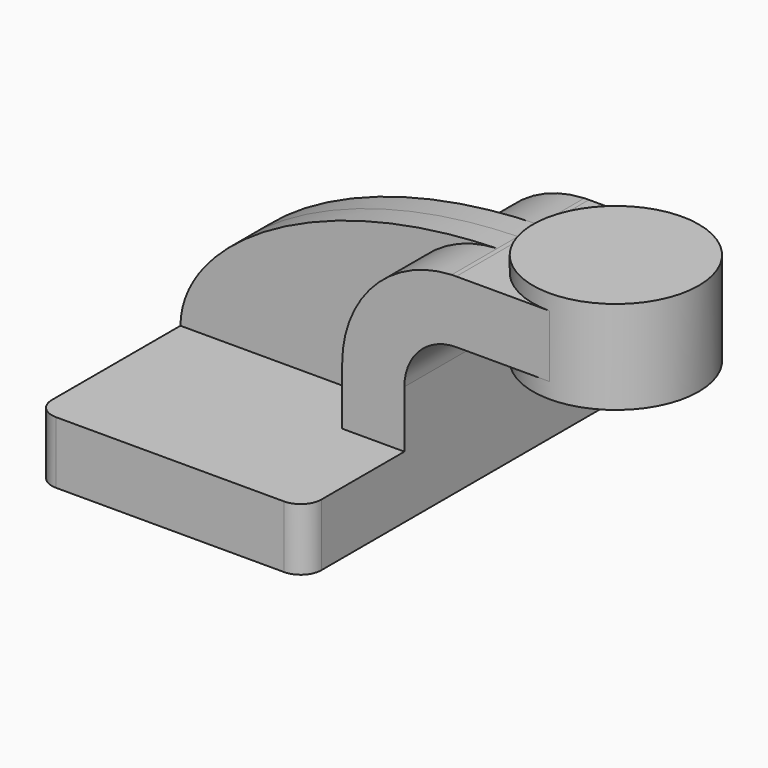
from build123d import *

# Parameters (mm, degrees)
F1_DEPTH = 63.5
F2_DEPTH = 25.4
F3_DEPTH = 7.9375
F5_R     = 6.35


with BuildPart() as f1:
    # F0 (on Front) → F1 (new body, symmetric)
    with BuildSketch(Plane.XZ):
        Polygon((-41.275, 9.525), (-41.275, -9.525), (41.275, -9.525), (41.275, 9.525), (22.225, 9.525), align=None)
    extrude(amount=F1_DEPTH, both=True)

    # F0 (on Front) → F2 (join, symmetric)
    with BuildSketch(Plane.XZ):
        with BuildLine():
            Line((22.225, 9.525), (41.275, 9.525))
            Line((41.275, 9.525), (41.275, 27.0002))
            ThreePointArc((41.275, 27.0002), (45.92468, 38.22552), (57.15, 42.8752))
            Line((57.15, 42.8752), (60.325, 42.8752))
            Line((60.325, 42.8752), (60.325, 61.9252))
            Line((60.325, 61.9252), (57.15, 61.9252))
            add(Edge.make_bspline(
                [(55.738204, 61.896653), (56.207698, 61.907946), (56.678301, 61.917467), (57.15, 61.9252)],
                knots=[110.584211, 110.584211, 110.584211, 110.584211, 111.504536, 111.504536, 111.504536, 111.504536], degree=3))
            ThreePointArc((55.738204, 61.896653), (31.960095, 51.19161), (22.225, 27.0002))
            Line((22.225, 27.0002), (22.225, 9.525))
        make_face()
        Polygon((85.725, 61.9252), (60.325, 61.9252), (60.325, 42.8752), (85.725, 42.8752), (85.725, 52.3875), align=None)
    extrude(amount=F2_DEPTH, both=True)

    # F0 (on Front) → F3 (join, symmetric)
    with BuildSketch(Plane.XZ):
        with BuildLine():
            add(Edge.make_bspline(
                [(-41.275, 9.525), (-41.068148, 33.600268), (-0.675116, 60.539722), (55.738204, 61.896653)],
                knots=[0, 0, 0, 0, 110.584211, 110.584211, 110.584211, 110.584211], degree=3))
            Line((-41.275, 9.525), (22.225, 9.525))
            Line((22.225, 9.525), (22.225, 27.0002))
            ThreePointArc((22.225, 27.0002), (31.960095, 51.19161), (55.738204, 61.896653))
        make_face()
    extrude(amount=F3_DEPTH, both=True)

    # F0 (on Front) → F4 (revolve)
    with BuildSketch(Plane.XZ):
        Polygon((85.725, 66.675), (85.725, 61.9252), (85.725, 52.3875), (85.725, 42.8752), (85.725, 38.1), (111.125, 38.1), (111.125, 66.675), align=None)
    revolve(axis=Axis((85.725, 0, 57.15635), (0, 0, 1)))

    # F5
    f5_edges = [f1.edges().sort_by_distance(p)[0] for p in [
        (41.275, 63.5, 0),
        (-41.275, 63.5, 0),
        (41.275, -63.5, 0),
        (-41.275, -63.5, 0),
    ]]
    fillet(f5_edges, radius=F5_R)


solid = f1.part
